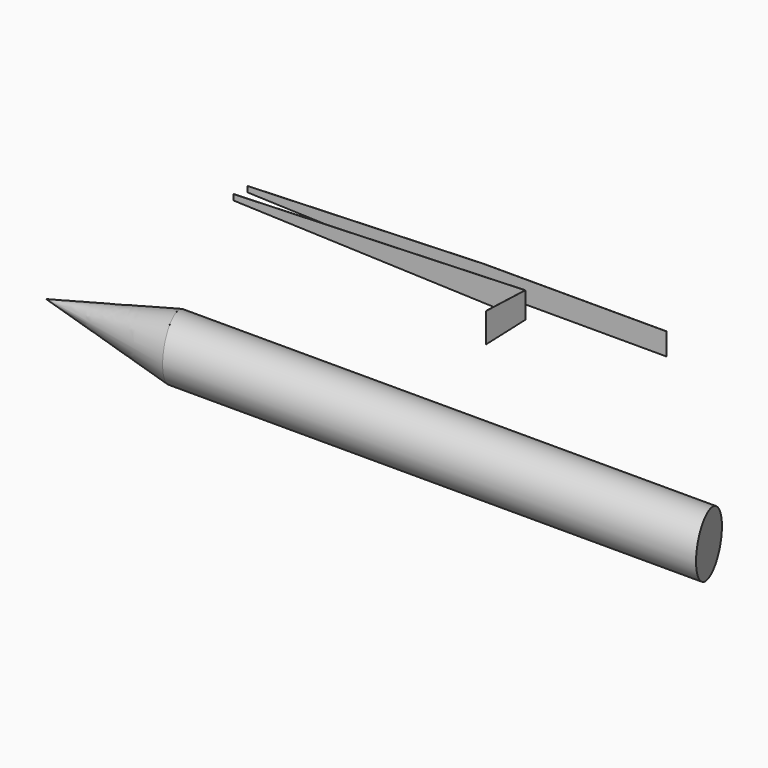
from build123d import *

# Parameters (mm, degrees)
F0_W     = 406.4
F0_H     = 160.8463985571
F0_W_2   = 355.6
F0_W_3   = 571.7850625672
F1_DEPTH = 0.508
F2_START = 127
F2_DEPTH = 1.016
F3_START = 127
F3_DEPTH = 1.016
F4_ANGLE = 90
F7_DEPTH = 254


with BuildPart() as f1:
    # F0 (on Front) → F1 (new body, symmetric)
    with BuildSketch(Plane.XZ):
        Polygon((901.4149374328, 80.4231992786), (-812.8, 20.5614945892), (-812.8, -20.5614945891), (901.4149374328, -80.4231992786), align=None)
        with Locations((1104.6149374328, 0)):
            Rectangle(F0_W, F0_H)
        with Locations((1485.6149374328, 0)):
            Rectangle(F0_W_2, F0_H)
        with Locations((1949.3074687164, 0)):
            Rectangle(F0_W_3, F0_H)
    extrude(amount=F1_DEPTH, both=True)


with BuildPart() as f2:
    # F0 (on Front) → F2 (new body)
    with BuildSketch(Plane.XZ.offset(F2_START)):
        Polygon((1307.8149374328, -80.4231992786), (901.4149374328, -80.4231992786), (1307.8149374328, -94.615), align=None)
        Polygon((1307.8149374328, 94.615), (901.4149374328, 80.4231992786), (1307.8149374328, 80.4231992786), align=None)
        with Locations((1104.6149374328, 0)):
            Rectangle(F0_W, F0_H)
        Polygon((901.4149374328, 80.4231992786), (-812.8, 20.5614945892), (-812.8, -20.5614945891), (901.4149374328, -80.4231992786), align=None)
    extrude(amount=F2_DEPTH)


with BuildPart() as f3:
    # F0 (on Front) → F3 (new body)
    with BuildSketch(Plane.XZ.offset(F3_START)):
        Polygon((1663.4149374328, 107.0328256313), (1307.8149374328, 94.615), (1307.8149374328, 80.4231992786), (1663.4149374328, 80.4231992786), align=None)
        with Locations((1485.6149374328, 0)):
            Rectangle(F0_W_2, F0_H)
        Polygon((1307.8149374328, -80.4231992786), (1307.8149374328, -94.615), (1663.4149374328, -107.0328256313), (1663.4149374328, -80.4231992786), align=None)
    extrude(amount=F3_DEPTH)


with BuildPart() as f3_1:
    # F4: moved
    add(f3.part.rotate(Axis((1307.8149374328, -128.016, 0), (0, 0, -1)), F4_ANGLE))


with BuildPart() as f6:
    # F5 (on Top) → F6 (revolve)
    with BuildSketch(Plane.XY):
        Polygon((3881.4376528439, -1555.1489124103), (0, -1555.1489124103), (78.5811735781, -1771.0489124103), (3960.0188264219, -1771.0489124103), align=None)
        Polygon((4038.6, -1555.1489124103), (3881.4376528439, -1555.1489124103), (3960.0188264219, -1771.0489124103), (4038.6, -1771.0489124103), align=None)
        Polygon((0, -1555.1489124103), (0, -1771.0489124103), (78.5811735781, -1771.0489124103), align=None)
    revolve(axis=Axis((2019.3, -1771.0489124103, 0), (-1, 0, 0)))

    # F5 (on Top) → F7 (cut, symmetric)
    with BuildSketch(Plane.XY):
        Polygon((78.5811735781, -1771.0489124103), (0, -1771.0489124103), (0, -1986.9489124103), (157.1623471561, -1986.9489124103), align=None)
        Polygon((0, -1555.1489124103), (0, -1771.0489124103), (78.5811735781, -1771.0489124103), align=None)
        Polygon((4038.6, -1555.1489124103), (3881.4376528439, -1555.1489124103), (3960.0188264219, -1771.0489124103), (4038.6, -1771.0489124103), align=None)
        Polygon((4038.6, -1771.0489124103), (3960.0188264219, -1771.0489124103), (4038.6, -1986.9489124103), align=None)
        Polygon((78.5811735781, -1771.0489124103), (0, -1771.0489124103), (0, -1986.9489124103), (157.1623471561, -1986.9489124103), align=None)
    extrude(amount=F7_DEPTH, both=True, mode=Mode.SUBTRACT)


with BuildPart() as f8:
    # F7_face (on face) → F8 section 0
    with BuildSketch(Plane(origin=(78.5811735781, -1771.0489124103, 0), x_dir=(0.3420201433, -0.9396926208, 0), z_dir=(-0.9396926208, -0.3420201433, 0)), mode=Mode.PRIVATE) as f8_s0:
        with BuildLine():
            add(Edge.make_bspline(
                [(-229.7559810775, 0), (-229.7559810775, 215.9), (0, 215.9), (229.7559810775, 215.9), (229.7559810775, 0)],
                knots=[0, 0, 0, 1.5707963268, 1.5707963268, 3.1415926536, 3.1415926536, 3.1415926536], degree=2, weights=[1, 0.7071067812, 1, 0.7071067812, 1]))
            add(Edge.make_bspline(
                [(229.7559810775, 0), (229.7559810775, -215.9), (0, -215.9), (-229.7559810775, -215.9), (-229.7559810775, 0)],
                knots=[3.1415926536, 3.1415926536, 3.1415926536, 4.7123889804, 4.7123889804, 6.2831853072, 6.2831853072, 6.2831853072], degree=2, weights=[1, 0.7071067812, 1, 0.7071067812, 1]))
        make_face()
    loft([f8_s0.sketch, Vertex(-863.6, -1771.0489124103, 0)])


solid = Compound([f1.part, f2.part, f3_1.part, f6.part, f8.part])
